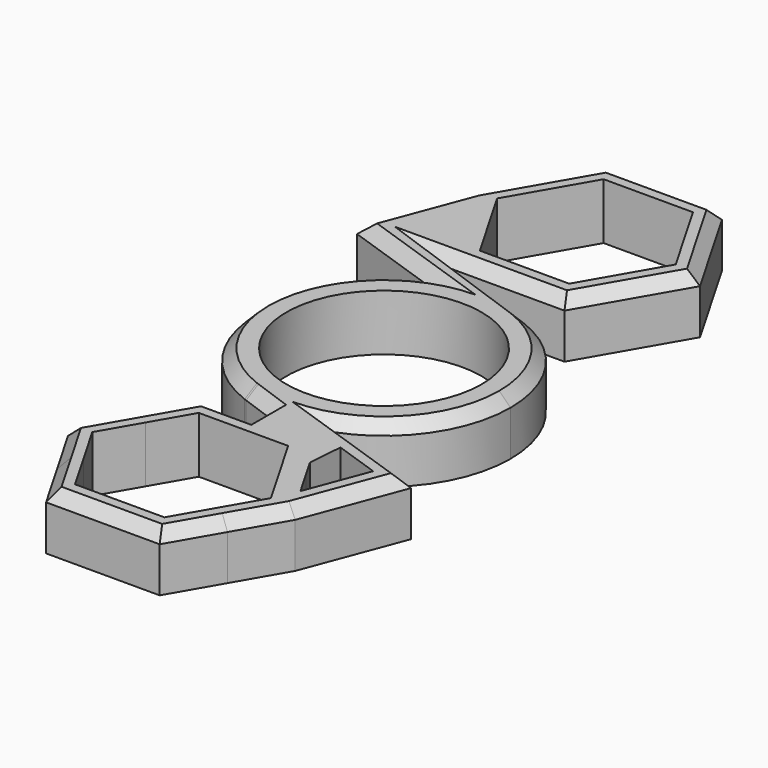
from build123d import *

# Parameters (mm, degrees)
F2_DEPTH = 6.35
F1_R     = 11.0236
F3_DEPTH = 6.35
F4_SIZE  = 1.27


with BuildPart() as f2:
    # F0 (on Top) → F2 (new body)
    with BuildSketch(Plane.XY):
        Polygon((-6.4158048664, 17.4625), (6.4158048664, 17.4625), (12.8316097327, 28.575), (6.4158048664, 39.6875), (-6.4158048664, 39.6875), (-12.8316097327, 28.575), align=None)
        Polygon((10.0893114241, 28.575), (5.0446557121, 19.8374), (-5.0446557121, 19.8374), (-10.0893114241, 28.575), (-5.0446557121, 37.3126), (5.0446557121, 37.3126), align=None, mode=Mode.SUBTRACT)
    extrude(amount=F2_DEPTH)

    # F1 (on face) → F3 (join)
    with BuildSketch(Plane.XY):
        with BuildLine():
            Line((-6.4158048664, 17.4625), (-9.6237072152, 23.0187498538))
            Line((-9.6237072152, 23.0187498538), (-12.8316097327, 28.575))
            Line((-12.8316097327, 28.575), (-17.0211530549, 17.4625))
            Line((-17.0211530549, 17.4625), (-5.038242593, 13.3696958763))
            ThreePointArc((-5.038242593, 13.3696958763), (-0.124129265, 14.2869607746), (4.8051799463, 13.4552183904))
            Line((4.8051799463, 13.4552183904), (-6.4158048664, 17.4625))
        make_face()
        with BuildLine():
            ThreePointArc((5.038242593, 13.3696958763), (4.9218970272, 13.4129633528), (4.8051799463, 13.4552183904))
            ThreePointArc((4.8051799463, 13.4552183904), (-0.124129265, 14.2869607746), (-5.038242593, 13.3696958763))
            Line((-5.038242593, 13.3696958763), (5.038242593, 13.3696958763))
        make_face()
        with BuildLine():
            Line((5.038242593, 13.3696958763), (-5.038242593, 13.3696958763))
            ThreePointArc((-5.038242593, 13.3696958763), (-14.2875, 0), (-5.038242593, -13.3696958763))
            Line((-5.038242593, -13.3696958763), (5.038242593, -13.3696958763))
            ThreePointArc((5.038242593, -13.3696958763), (11.7498201539, -8.1286150482), (14.2875, 0))
            ThreePointArc((14.2875, 0), (11.7498201539, 8.1286150482), (5.038242593, 13.3696958763))
        make_face()
        Circle(F1_R, mode=Mode.SUBTRACT)
        with BuildLine():
            Line((5.038242593, -13.3696958763), (-5.038242593, -13.3696958763))
            ThreePointArc((-5.038242593, -13.3696958763), (-4.9218969503, -13.412963381), (-4.805179792, -13.4552184455))
            ThreePointArc((-4.805179792, -13.4552184455), (0.1241293469, -14.2869607739), (5.038242593, -13.3696958763))
        make_face()
        with BuildLine():
            ThreePointArc((5.038242593, -13.3696958763), (0.1241293469, -14.2869607739), (-4.805179792, -13.4552184455))
            Line((-4.805179792, -13.4552184455), (0, -15.1712628866))
            Line((0, -15.1712628866), (6.4158048664, -17.4625))
            Line((6.4158048664, -17.4625), (8.5332421601, -21.1300089747))
            Line((8.5332421601, -21.1300089747), (8.8309233846, -17.1881254571))
            Line((8.8309233846, -17.1881254571), (13.9178989278, -18.9255993827))
            Line((13.9178989278, -18.9255993827), (11.2879660769, -25.9013307593))
            Line((11.2879660769, -25.9013307593), (12.8316097327, -28.575))
            Line((12.8316097327, -28.575), (17.0211530549, -17.4625))
            Line((17.0211530549, -17.4625), (5.038242593, -13.3696958763))
        make_face()
        with BuildLine():
            Line((6.4158048664, -39.6875), (9.6237072578, -34.1312500723))
            ThreePointArc((9.6237072578, -34.1312500723), (5.5562499639, -38.1987073204), (0, -39.6875))
            Line((0, -39.6875), (6.4158048664, -39.6875))
        make_face()
        with BuildLine():
            ThreePointArc((9.6237071905, -23.0187498111), (5.5562499055, -18.9512926459), (0, -17.4625))
            ThreePointArc((0, -17.4625), (-5.556249932, -18.9512926612), (-9.623707221, -23.018749864))
            ThreePointArc((-9.623707221, -23.018749864), (-11.1125, -28.5750000026), (-9.6237072184, -34.1312501405))
            ThreePointArc((-9.6237072184, -34.1312501405), (-5.5562499298, -38.1987073401), (0, -39.6875))
            ThreePointArc((0, -39.6875), (5.5562499639, -38.1987073204), (9.6237072578, -34.1312500723))
            ThreePointArc((9.6237072578, -34.1312500723), (10.7338507338, -31.451126679), (11.1125, -28.575))
            ThreePointArc((11.1125, -28.575), (10.7338507164, -25.6988732559), (9.6237071905, -23.0187498111))
        make_face()
        Polygon((0, -19.8374), (5.0446557121, -19.8374), (7.5669837696, -24.2062003489), (10.0893114241, -28.575), (7.5669837791, -32.9437996345), (5.0446557121, -37.3126), (0, -37.3126), (-5.0446557121, -37.3126), (-7.5669835677, -32.9438000008), (-10.0893114241, -28.575), (-7.5669835463, -24.2061999623), (-5.0446557121, -19.8374), align=None, mode=Mode.SUBTRACT)
        with BuildLine():
            Line((9.6237072578, -34.1312500723), (12.8316097327, -28.575))
            Line((12.8316097327, -28.575), (11.2879660769, -25.9013307593))
            Line((11.2879660769, -25.9013307593), (9.6237071905, -23.0187498111))
            ThreePointArc((9.6237071905, -23.0187498111), (10.7338507164, -25.6988732559), (11.1125, -28.575))
            ThreePointArc((11.1125, -28.575), (10.7338507338, -31.451126679), (9.6237072578, -34.1312500723))
        make_face()
        with BuildLine():
            ThreePointArc((0, -39.6875), (-5.5562499298, -38.1987073401), (-9.6237072184, -34.1312501405))
            Line((-9.6237072184, -34.1312501405), (-6.4158048664, -39.6875))
            Line((-6.4158048664, -39.6875), (0, -39.6875))
        make_face()
        with BuildLine():
            ThreePointArc((-9.6237072184, -34.1312501405), (-11.1125, -28.5750000026), (-9.623707221, -23.018749864))
            Line((-9.623707221, -23.018749864), (-12.8316097327, -28.575))
            Line((-12.8316097327, -28.575), (-9.6237072184, -34.1312501405))
        make_face()
        with BuildLine():
            ThreePointArc((-9.623707221, -23.018749864), (-5.556249932, -18.9512926612), (0, -17.4625))
            Line((0, -17.4625), (-6.4158048664, -17.4625))
            Line((-6.4158048664, -17.4625), (-9.623707221, -23.018749864))
        make_face()
        with BuildLine():
            Line((8.5332421601, -21.1300089747), (6.4158048664, -17.4625))
            Line((6.4158048664, -17.4625), (0, -17.4625))
            ThreePointArc((0, -17.4625), (5.5562499055, -18.9512926459), (9.6237071905, -23.0187498111))
            Line((9.6237071905, -23.0187498111), (8.5332421601, -21.1300089747))
        make_face()
        Polygon((6.4158048664, -17.4625), (0, -15.1712628866), (0, -17.4625), align=None)
    extrude(amount=F3_DEPTH)

    # F4
    f4_edges = [f2.edges().sort_by_distance(p)[0] for p in [
        (-11.029698, 15.416098, 6.35),
        (-14.926381, 23.01875, 6.35),
        (-9.623707, 34.13125, 6.35),
        (0, 39.6875, 6.35),
        (9.623707, 34.13125, 6.35),
        (9.623707, 23.01875, 6.35),
        (0, 17.4625, 6.35),
        (-0.805312, 15.458859, 6.35),
        (14.286961, 0.124129, 6.35),
        (-14.286961, -0.124129, 6.35),
        (9.623707, -34.13125, 6.35),
        (0, -39.6875, 6.35),
        (-9.623707, -34.13125, 6.35),
        (-9.623707, -23.01875, 6.35),
        (-3.207902, -17.4625, 6.35),
        (14.926381, -23.01875, 6.35),
        (11.029698, -15.416098, 6.35),
        (-2.40259, -14.313241, 6.35),
    ]]
    chamfer(f4_edges, length=F4_SIZE)


solid = f2.part
